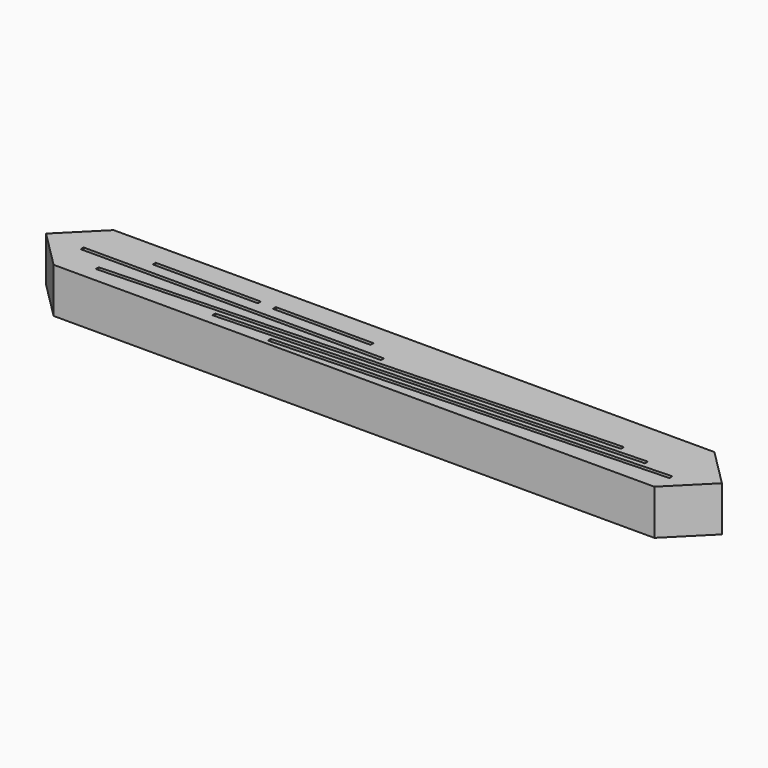
from build123d import *

# Parameters (mm, degrees)
F0_W     = 177.8
F0_H     = 6.35
F0_W_2   = 165.1
F1_DEPTH = 76.2


with BuildPart() as f1:
    # F0 (on Top) → F1 (new body)
    with BuildSketch(Plane.XY):
        Polygon((508, 0), (-508, 0), (-508, -63.5), (0, -63.5), (405.8161629425, -63.5), (508, -63.5), align=None)
        with Locations((-317.5, -41.275)):
            Rectangle(F0_W, F0_H, mode=Mode.SUBTRACT)
        with Locations((-120.65, -41.275)):
            Rectangle(F0_W_2, F0_H, mode=Mode.SUBTRACT)
        Polygon((-508, -63.5), (-508, 0), (-571.5, -63.5), align=None)
        Polygon((571.5, -63.5), (508, 0), (508, -63.5), align=None)
        Polygon((-508, -69.85), (-508, -63.5), (-571.5, -63.5), (-508, -127), align=None)
        Polygon((571.5, -63.5), (508, -63.5), (508, -88.9), (508.2334558824, -95.2457070805), (508, -95.2542958237), (508, -127), align=None)
        Polygon((508, -88.9), (508, -63.5), (405.8161629425, -63.5), (0, -63.5), (0, -69.85), (-508, -69.85), (-508, -127), (508, -127), (508, -95.2542958237), (-151.7200804854, -119.5251188452), (-151.9535363678, -113.1794117647), align=None)
        Polygon((-457.2, -95.25), (405.8161629425, -63.5), (406.0496188249, -69.8457070805), (-456.9665441176, -101.5957070805), align=None, mode=Mode.SUBTRACT)
        Polygon((456.7191930115, -82.5447314139), (-254, -108.6917902374), (-254.3446927927, -102.351152503), (456.4857730235, -76.2), align=None, mode=Mode.SUBTRACT)
    extrude(amount=F1_DEPTH)


solid = f1.part
